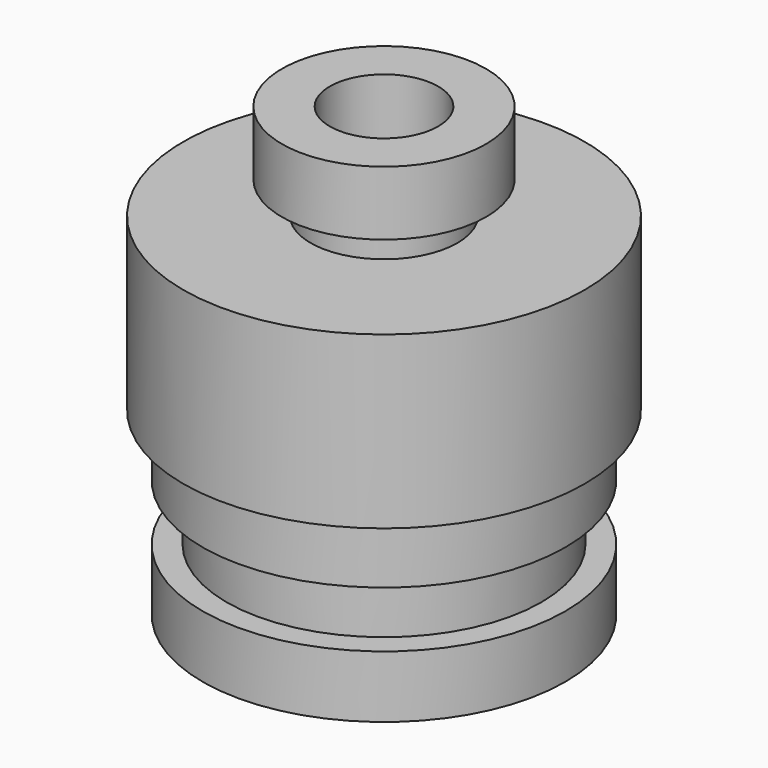
from build123d import *


with BuildPart() as f1:
    # F0 (on Front) → F1 (revolve)
    with BuildSketch(Plane.XZ):
        Polygon((1, 6.62), (1, 0), (5.65, 0), (5.65, 1.935), (4.9, 1.935), (4.9, 3.685), (5.65, 3.685), (5.65, 5.62), (6.25, 5.62), (6.25, 10.935799), (2.2875, 10.935799), (2.2875, 11.935799), (3.1775, 11.935799), (3.1775, 13.935799), (1.6875, 13.935799), (1.6875, 7.3075), align=None)
    revolve(axis=Axis((0, 0, 9.965437), (0, 0, 1)))


solid = f1.part
